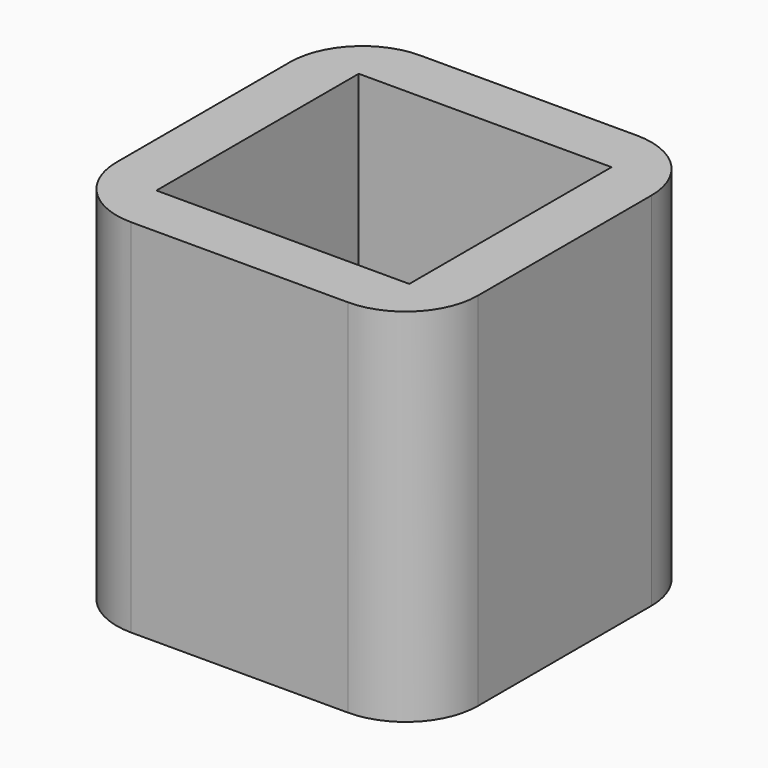
from build123d import *

# Parameters (mm, degrees)
F0_W     = 25.4
F0_H     = 25.4
F1_DEPTH = 25.4
F2_T     = -3.81
F3_R     = 5.08
F5_W     = 16.256
F5_H     = 16.256
F6_DEPTH = 1.27
F7_W     = 14.732
F7_H     = 14.732
F8_DEPTH = 2.54


with BuildPart() as f1:
    # F0 (on Front) → F1 (new body)
    with BuildSketch(Plane.XZ):
        with Locations((-33.946944, 33.299525)):
            Rectangle(F0_W, F0_H)
    extrude(amount=F1_DEPTH)

    # F2
    f2_openings = [f1.faces().sort_by_distance(p)[0] for p in [
        (-33.946944, -12.7, 45.999525),
    ]]
    offset(amount=F2_T, openings=f2_openings)

    # F3
    f3_edges = [f1.edges().sort_by_distance(p)[0] for p in [
        (-46.646944, 0, 33.299525),
        (-46.646944, -25.4, 33.299525),
        (-21.246944, -25.4, 33.299525),
        (-21.246944, 0, 33.299525),
    ]]
    fillet(f3_edges, radius=F3_R)

    # F5 (on face) → F6 (cut)
    with BuildSketch(Plane.XY.offset(24.409525)):
        with Locations((-33.946944, -12.7)):
            Rectangle(F5_W, F5_H)
    extrude(amount=-F6_DEPTH, mode=Mode.SUBTRACT)

    # F7 (on face) → F8 (cut)
    with BuildSketch(Plane.XY.offset(24.409525)):
        with Locations((-33.946944, -12.7)):
            Rectangle(F7_W, F7_H)
    extrude(amount=-F8_DEPTH, mode=Mode.SUBTRACT)


solid = f1.part
